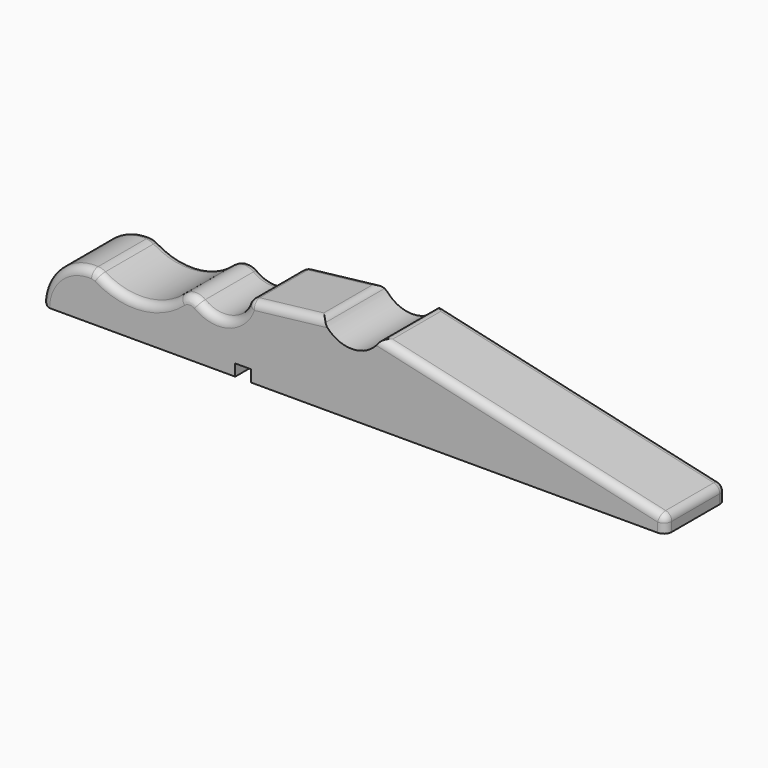
from build123d import *

# Parameters (mm, degrees)
F1_DEPTH = 9.7
F3_R     = 2
F4_R     = 1
F2_W     = 2
F2_H     = 1.5
F5_DEPTH = 9.701


with BuildPart() as f1:
    # F0 (on Front) → F1 (new body)
    with BuildSketch(Plane.XZ):
        with BuildLine():
            ThreePointArc((7, 6), (2.120195, 4.609772), (0, 0))
            Line((0, 0), (80, 0))
            Line((80, 0), (80, 2))
            Line((80, 2), (43.5, 10.3))
            ThreePointArc((43.5, 10.3), (39.75, 8), (36, 10.3))
            Line((36, 10.3), (26.5, 9.2))
            ThreePointArc((26.5, 9.2), (23.105314, 6.035142), (19, 8.2))
            ThreePointArc((19, 8.2), (13.450531, 4.642557), (7, 6))
        make_face()
    extrude(amount=F1_DEPTH)

    # F3
    f3_edges = [f1.edges().sort_by_distance(p)[0] for p in [
        (19, -4.85, 8.2),
        (7, -4.85, 6),
    ]]
    fillet(f3_edges, radius=F3_R)

    # F4
    f4_edges = [f1.edges().sort_by_distance(p)[0] for p in [
        (26.5, -4.85, 9.2),
        (36, -4.85, 10.3),
        (43.5, -4.85, 10.3),
        (80, -4.85, 2),
        (61.75, 0, 6.15),
        (61.75, -9.7, 6.15),
        (31.25, 0, 9.75),
        (31.25, -9.7, 9.75),
        (1.907739, 0, 4.418816),
        (6.432073, -4.85, 6.060708),
        (0, -4.85, 0),
        (1.907739, -9.7, 4.418816),
        (80, -9.7, 1),
        (80, 0, 1),
    ]]
    fillet(f4_edges, radius=F4_R)

    # F2 (on face) → F5 (cut, through all)
    with BuildSketch(Plane.XZ.offset(9.7)):
        with Locations((25.8, 0.75)):
            Rectangle(F2_W, F2_H)
    extrude(amount=-F5_DEPTH, mode=Mode.SUBTRACT)


solid = f1.part
